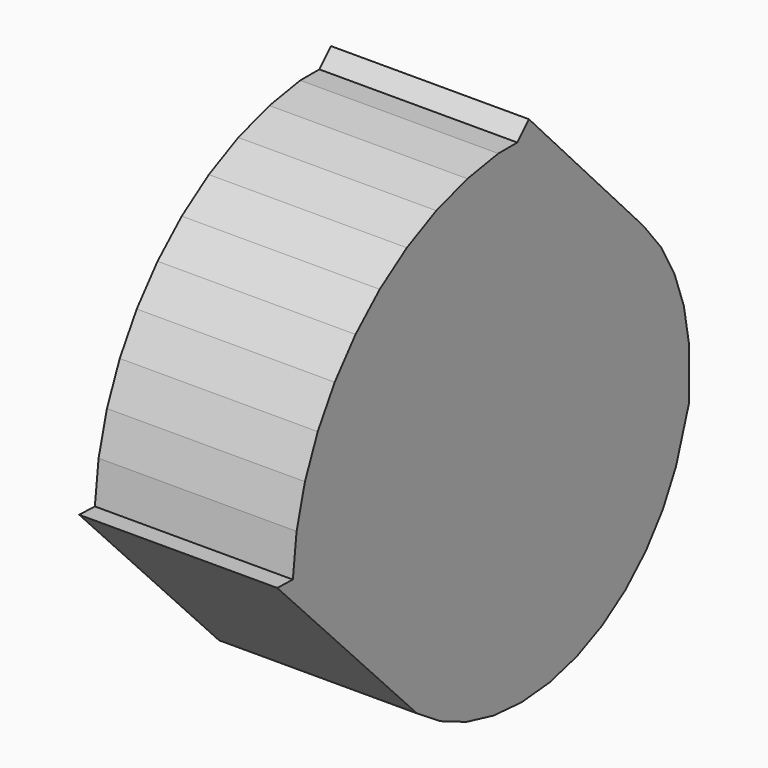
from build123d import *

# Parameters (mm, degrees)
F1_DEPTH = 7


with BuildPart() as f1:
    # F0 (on Right) → F1 (new body)
    with BuildSketch(Plane.YZ):
        Polygon((-10.270449, -0.400699), (-4.092179, -6.819432), (-3.047954, -7.485725), (-1.908302, -7.971057), (-0.704311, -8.262191), (0.531178, -8.351182), (1.764465, -8.235605), (2.961906, -7.918611), (4.090843, -7.408849), (5.120478, -6.720222), (6.022723, -5.871515), (6.772974, -4.88588), (7.350761, -3.790199), (7.740323, -2.614362), (7.917699, -2.078977), (7.917699, -0.151823), (7.700671, 1.067708), (7.285879, 2.234883), (6.684631, 3.317867), (5.913329, 4.287119), (0.855827, 9.663673), (0.340538, 9.148384), (-0.500703, 9.148384), (-1.864732, 8.917333), (-3.241889, 8.484291), (-4.542701, 7.858209), (-5.74027, 7.052034), (-6.809833, 6.082434), (-7.729276, 4.969459), (-8.479586, 3.736121), (-9.045251, 2.407921), (-9.414573, 1.012325), (-9.579916, -0.421813), align=None)
    extrude(amount=F1_DEPTH)


solid = f1.part
